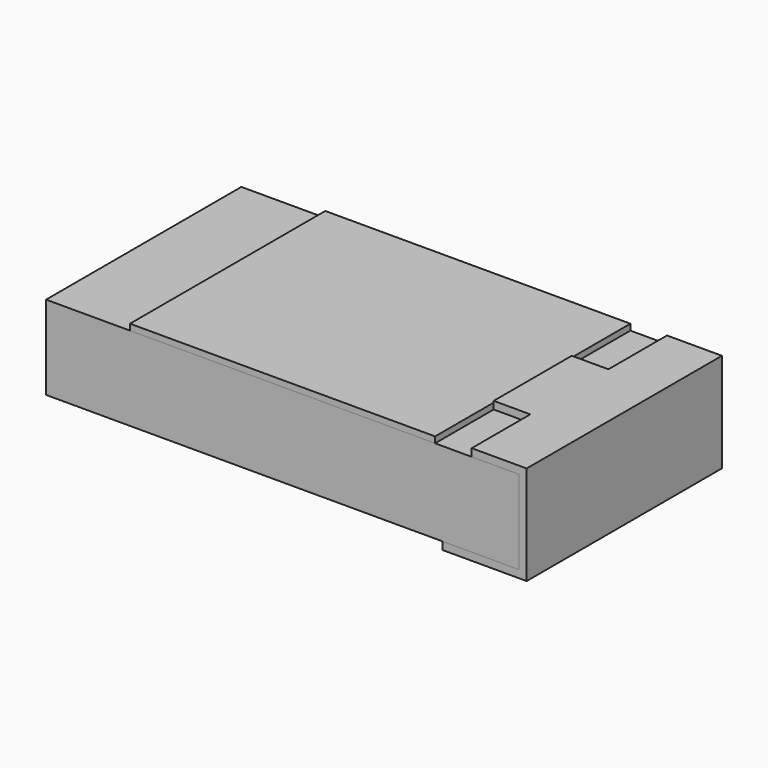
from build123d import *

# Parameters (mm, degrees)
PAD_DEPTH    = 0.8
SKETCH001_W  = 0.24
SKETCH001_H  = 0.48
POCKET_DEPTH = 0.05
SKETCH002_W  = 3.1
SKETCH002_H  = 0.55
PAD001_DEPTH = 0.8
SKETCH003_W  = 2
SKETCH003_H  = 1.6
PAD002_DEPTH = 0.04


with BuildPart() as connection:
    # Sketch → Pad (new body, symmetric)
    with BuildSketch(Plane.XZ):
        Polygon((-1, 0.65), (-1.6, 0.65), (-1.6, 0), (-1.05, 0), (-1.05, 0.05), (-1.55, 0.05), (-1.55, 0.6), (-1, 0.6), align=None)
    extrude(amount=PAD_DEPTH, both=True)

    # Sketch001 (on Face1 of Pad) → Pocket (cut)
    with BuildSketch(Plane(origin=(0, 0, 0.65), x_dir=(-1, 0, 0), z_dir=(0, 0, 1))):
        with Locations((1.12, -0.56)):
            Rectangle(SKETCH001_W, SKETCH001_H)
        with Locations((1.12, 0.56)):
            Rectangle(SKETCH001_W, SKETCH001_H)
    extrude(amount=-POCKET_DEPTH, mode=Mode.SUBTRACT)


with BuildPart() as connection_mirrored:
    # mirror: instance of Connection
    add(connection.part.mirror(Plane(origin=(0, 0, 0), x_dir=(0, -1, 0), z_dir=(1, 0, 0))))


with BuildPart() as substrate:
    # Sketch002 → Pad001 (new body, symmetric)
    with BuildSketch(Plane.XZ):
        with Locations((0, 0.325)):
            Rectangle(SKETCH002_W, SKETCH002_H)
    extrude(amount=PAD001_DEPTH, both=True)


with BuildPart() as overcoat:
    # Sketch003 (on DatumPlane) → Pad002 (new body)
    with BuildSketch(Plane(origin=(-0.333333, 0.106667, 0.6), x_dir=(1, 0, 0), z_dir=(0, 0, 1))):
        with Locations((0.333333, -0.106667)):
            Rectangle(SKETCH003_W, SKETCH003_H)
    extrude(amount=PAD002_DEPTH)


solid = Compound([connection_mirrored.part, substrate.part, overcoat.part])
